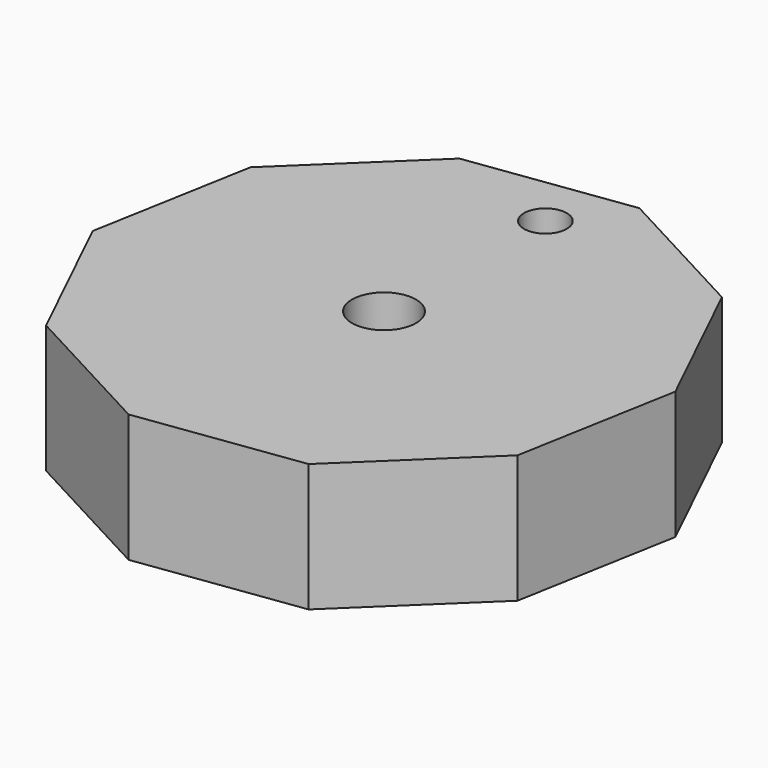
from build123d import *

# Parameters (mm, degrees)
F0_R     = 3.175
F0_R_2   = 2.122102
F1_DEPTH = 12.7


with BuildPart() as f1:
    # F0 (on Top) → F1 (new body)
    with BuildSketch(Plane.XY):
        Polygon((-9.458376, 3.579904), (-16.536103, 18.203098), (-30.857402, 25.873328), (-46.952024, 23.660825), (-58.67237, 12.410692), (-61.541667, -3.579904), (-54.463941, -18.203098), (-40.142642, -25.873328), (-24.04802, -23.660825), (-12.327673, -12.410692), align=None)
        with Locations((-35.500022, 0)):
            Circle(F0_R, mode=Mode.SUBTRACT)
        with Locations((-35.202213, 19.640388)):
            Circle(F0_R_2, mode=Mode.SUBTRACT)
    extrude(amount=F1_DEPTH)


solid = f1.part
